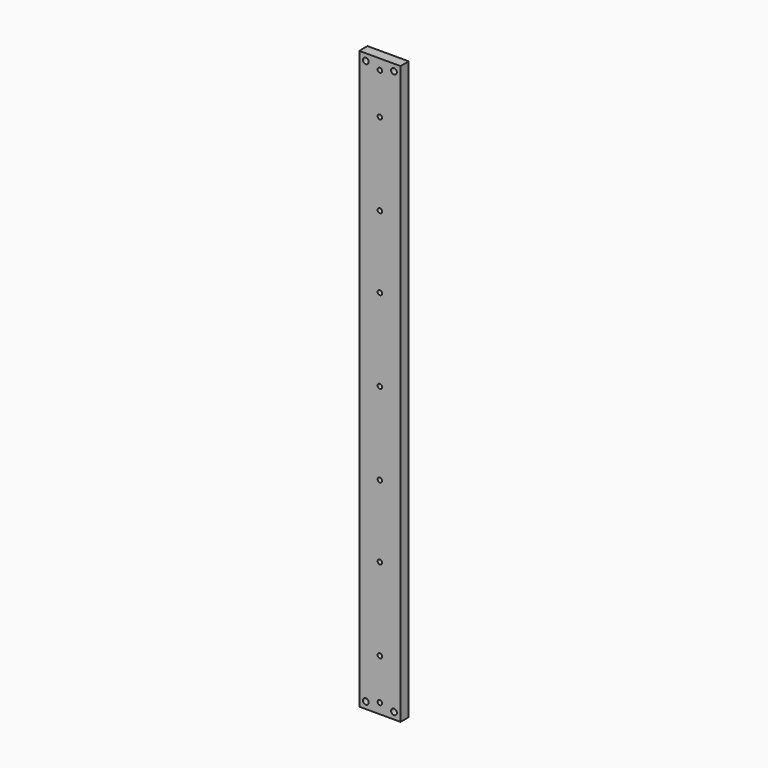
from build123d import *

# Parameters (mm, degrees)
F0_R     = 1.778
F0_R_2   = 1.397
F1_DEPTH = 6.35


with BuildPart() as f1:
    # F0 (on Front) → F1 (new body)
    with BuildSketch(Plane.XZ):
        with BuildLine():
            ThreePointArc((1.397, 95.25), (0.987828, 96.237828), (0, 96.647))
            ThreePointArc((0, 96.647), (-0.987828, 94.262172), (1.397, 95.25))
        make_face()
        with BuildLine():
            ThreePointArc((1.397, 50.8), (-0.987828, 51.787828), (0, 49.403))
            ThreePointArc((0, 49.403), (0.987828, 49.812172), (1.397, 50.8))
        make_face()
        with BuildLine():
            Line((12.7, 0), (12.7, 177.8))
            Line((12.7, 177.8), (0, 177.8))
            Line((0, 177.8), (-12.7, 177.8))
            Line((-12.7, 177.8), (-12.7, 0))
            Line((-12.7, 0), (-1.397, 0))
            ThreePointArc((-1.397, 0), (-0.987828, 0.987828), (0, 1.397))
            ThreePointArc((0, 1.397), (0.987828, 0.987828), (1.397, 0))
            Line((1.397, 0), (12.7, 0))
        make_face()
        with BuildLine():
            ThreePointArc((1.397, 50.8), (0.987828, 49.812172), (0, 49.403))
            ThreePointArc((0, 49.403), (-0.987828, 51.787828), (1.397, 50.8))
        make_face(mode=Mode.SUBTRACT)
        with Locations((-8.681838, 173.663765)):
            Circle(F0_R, mode=Mode.SUBTRACT)
        with BuildLine():
            ThreePointArc((1.397, 95.25), (-0.987828, 94.262172), (0, 96.647))
            ThreePointArc((0, 96.647), (0.987828, 96.237828), (1.397, 95.25))
        make_face(mode=Mode.SUBTRACT)
        with BuildLine():
            ThreePointArc((0, 144.653), (-1.397, 146.05), (0, 147.447))
            ThreePointArc((0, 147.447), (0.987828, 147.037828), (1.397, 146.05))
            ThreePointArc((1.397, 146.05), (0.987828, 145.062172), (0, 144.653))
        make_face(mode=Mode.SUBTRACT)
        with BuildLine():
            ThreePointArc((0, 170.053), (-1.397, 171.45), (0, 172.847))
            ThreePointArc((0, 172.847), (0.987828, 172.437828), (1.397, 171.45))
            ThreePointArc((1.397, 171.45), (0.987828, 170.462172), (0, 170.053))
        make_face(mode=Mode.SUBTRACT)
        with Locations((8.681838, 173.663765)):
            Circle(F0_R, mode=Mode.SUBTRACT)
        with BuildLine():
            Line((12.7, -177.8), (12.7, 0))
            Line((12.7, 0), (1.397, 0))
            ThreePointArc((1.397, 0), (0, -1.397), (-1.397, 0))
            Line((-1.397, 0), (-12.7, 0))
            Line((-12.7, 0), (-12.7, -177.8))
            Line((-12.7, -177.8), (12.7, -177.8))
        make_face()
        with Locations((-8.681838, -173.663765)):
            Circle(F0_R, mode=Mode.SUBTRACT)
        with Locations((0, -171.45)):
            Circle(F0_R_2, mode=Mode.SUBTRACT)
        with Locations((0, -146.05)):
            Circle(F0_R_2, mode=Mode.SUBTRACT)
        with Locations((0, -95.25)):
            Circle(F0_R_2, mode=Mode.SUBTRACT)
        with Locations((0, -50.8)):
            Circle(F0_R_2, mode=Mode.SUBTRACT)
        with Locations((8.681838, -173.663765)):
            Circle(F0_R, mode=Mode.SUBTRACT)
    extrude(amount=F1_DEPTH)


solid = f1.part
